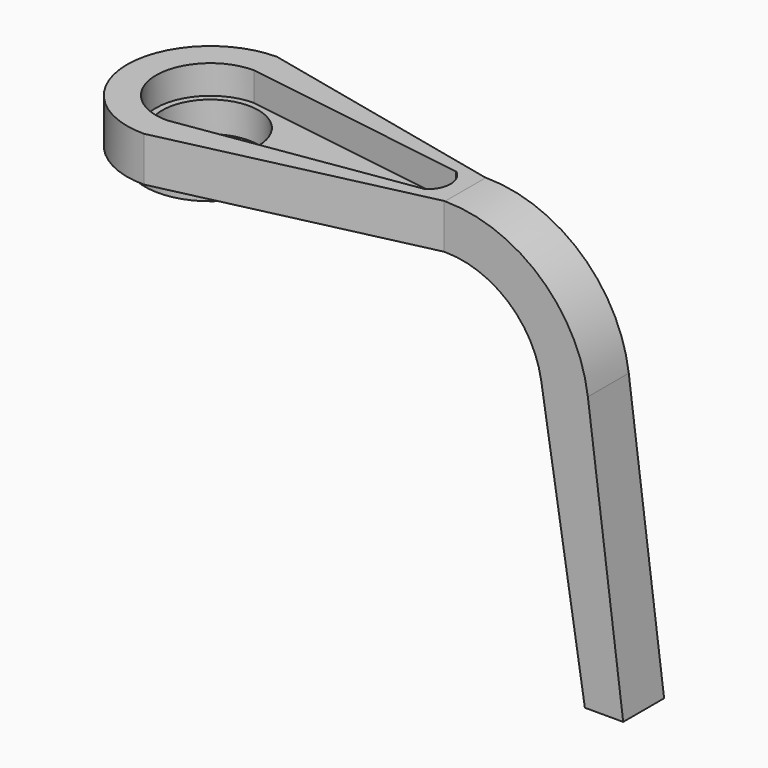
from build123d import *

# Parameters (mm, degrees)
SKETCH008_R        = 5.130378
PAD006_DEPTH       = 1.2
PAD004_DEPTH       = 2
PAD005_DEPTH       = 3.5
POCKET_DEPTH       = 2.25
SKETCH009_R        = 3.757957
POCKET003002_DEPTH = 5


with BuildPart() as servo_support_cylinder001:
    # Sketch008 → Pad006 (new body)
    with BuildSketch(Plane.XY.offset(26.7)):
        Circle(SKETCH008_R)
    extrude(amount=PAD006_DEPTH)


with BuildPart() as servo_leg:
    # Sketch005 → Pad004 (new body, symmetric)
    with BuildSketch(Plane.XZ):
        with BuildLine():
            Line((-5.48246, 27.836502), (19.959321, 27.836502))
            ThreePointArc((27.493431, 21.408161), (24.91125, 26.011021), (19.959321, 27.836502))
            Line((27.493431, 21.408161), (30.905711, 0))
            Line((33.905711, 0), (30.905711, 0))
            Line((31.140427, 21.501308), (33.905711, 0))
            ThreePointArc((31.140427, 21.501308), (27.404927, 28.527815), (19.959321, 31.336502))
            Line((-5.48246, 31.336502), (19.959321, 31.336502))
            Line((-5.48246, 27.836502), (-5.48246, 31.336502))
        make_face()
    extrude(amount=PAD004_DEPTH, both=True)

    # Sketch006 → Pad005 (new body)
    with BuildSketch(Plane(origin=(0, 0, 31.336502), x_dir=(-1, 0, 0), z_dir=(0, 0, 1))):
        with BuildLine():
            Line((-19.908253, 1.9951), (0, 6.517084))
            ThreePointArc((6.517084, 0), (4.608274, 4.608274), (0, 6.517084))
            Line((6.517084, 0), (0, 0))
            Line((-19.908253, 0), (0, 0))
            Line((-19.908253, 1.9951), (-19.908253, 0))
        make_face()
    pad005 = extrude(amount=-PAD005_DEPTH)

    # Mirrored: Pad005 across Sketch006 H_Axis
    add(pad005.mirror(Plane(origin=(0, 0, 31.336502), x_dir=(0, 0, 1), z_dir=(0, -1, 0))))

    # Sketch007 → Pocket (cut)
    with BuildSketch(Plane(origin=(0, 0, 31.336502), x_dir=(-1, 0, 0), z_dir=(0, 0, 1))):
        with BuildLine():
            Line((-18.037807, 1.500282), (0, 4.25))
            ThreePointArc((2e-06, -4.25), (4.25, 1e-06), (0, 4.25))
            Line((-18.038573, -1.499718), (2e-06, -4.25))
            ThreePointArc((-18.037807, 1.500282), (-18.79662, 0.000476), (-18.038573, -1.499718))
        make_face()
    extrude(amount=-POCKET_DEPTH, mode=Mode.SUBTRACT)

    # Fusion007002: union servo_support_cylinder001
    add(servo_support_cylinder001.part)

    # Sketch009 → Pocket003002 (cut)
    with BuildSketch(Plane(origin=(0, 0, 26.7), x_dir=(1, 0, 0), z_dir=(0, 0, -1))):
        Circle(SKETCH009_R)
    extrude(amount=-POCKET003002_DEPTH, mode=Mode.SUBTRACT)


solid = servo_leg.part
